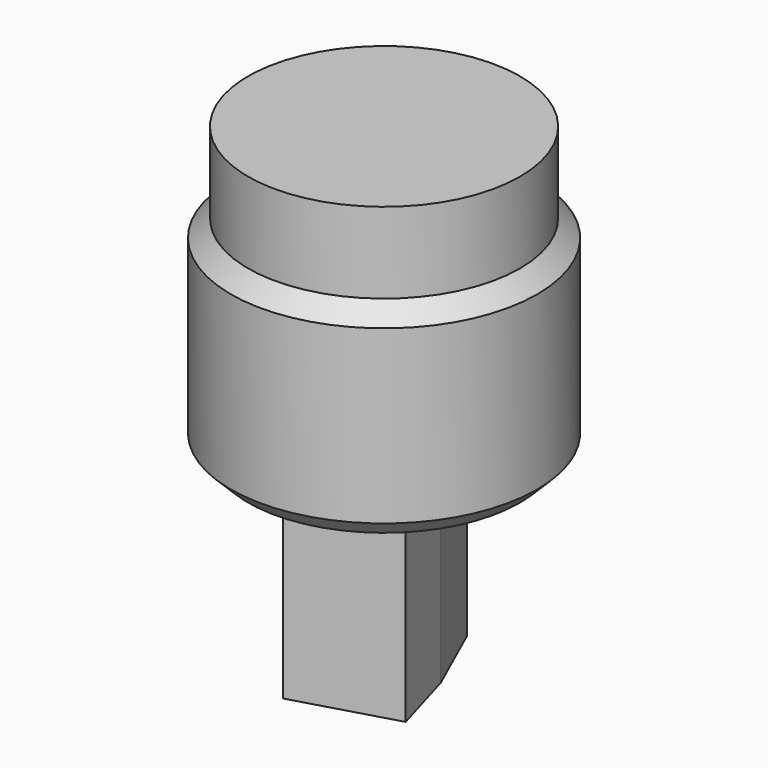
from build123d import *

# Parameters (mm, degrees)
F0_R     = 45.2513140414
F1_DEPTH = 36.2754836679
F3_DEPTH = 38.2841601968
F5_DEPTH = 24.6460158378
F6_SIZE  = 5.08
F7_DEPTH = 23.8733459264
F8_DEPTH = 16.1826983094


with BuildPart() as f1:
    # F0 (on Top) → F1 (new body)
    with BuildSketch(Plane.XY):
        Circle(F0_R)
    extrude(amount=F1_DEPTH)

    # F2 (on face) → F3 (join)
    with BuildSketch(Plane(origin=(0, 0, 0), x_dir=(1, 0, 0), z_dir=(0, 0, -1))):
        Polygon((-12.9493158311, -17.3341035843), (6.9733597338, -21.838657558), (16.743408516, 0), (22.6436909288, 20.306520164), (-6.7410551447, 28.8445807998), (-20.420435816, 0), align=None)
    extrude(amount=F3_DEPTH)

    # F5 (add): a face of the model
    f5_faces = [f1.faces().sort_by_distance(p)[0] for p in [
        (0, 0, 36.2754836679),
    ]]
    extrude(f5_faces, amount=F5_DEPTH)

    # F6
    f6_edges = [f1.edges().sort_by_distance(p)[0] for p in [
        (-45.251314, 0, 60.9215),
        (-45.251314, 0, 0),
        (45.251314, 0, 30.46075),
    ]]
    chamfer(f6_edges, length=F6_SIZE)

    # F7 (add): a face of the model
    f7_faces = [f1.faces().sort_by_distance(p)[0] for p in [
        (0, 0, 60.9214995056),
    ]]
    extrude(f7_faces, amount=F7_DEPTH)

    # F4 (on face) → F8 (join)
    with BuildSketch(Plane(origin=(0, 0, -38.2841601968), x_dir=(1, 0, 0), z_dir=(0, 0, -1))):
        Polygon((22.6436909288, 20.306520164), (-6.7410551447, 28.8445807998), (-20.420435816, 0), (-12.9493158311, -17.3341035843), (6.9733597338, -21.838657558), (16.743408516, 0), align=None)
    extrude(amount=F8_DEPTH)


solid = f1.part
